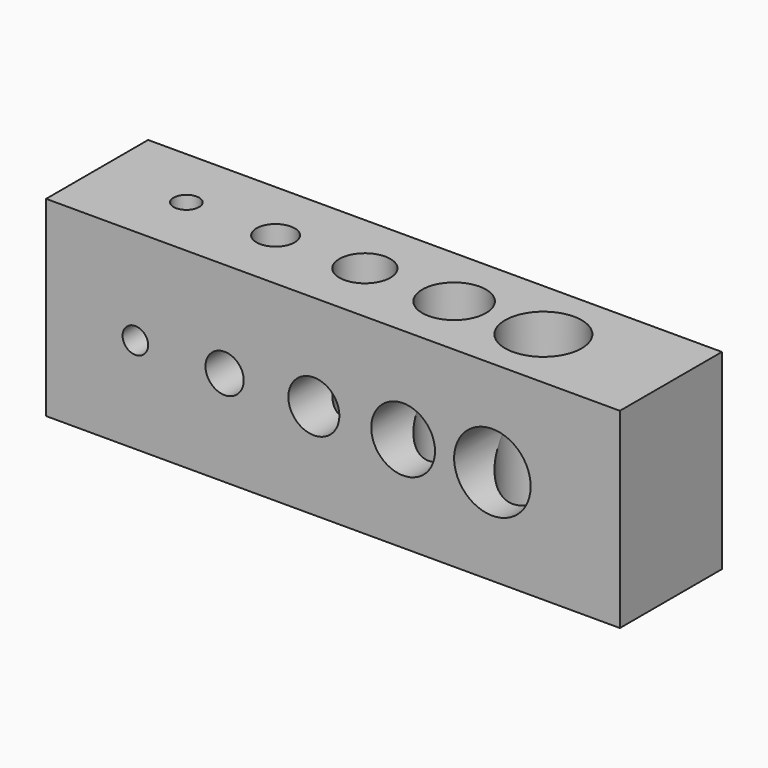
from build123d import *

# Parameters (mm, degrees)
F0_W     = 45
F0_H     = 10
F1_DEPTH = 15
F2_R     = 1
F2_R_2   = 1.5
F2_R_3   = 2
F2_R_4   = 2.5
F2_R_5   = 3
F3_DEPTH = 10
F4_R     = 1
F4_R_2   = 1.5
F4_R_3   = 2
F4_R_4   = 2.5
F4_R_5   = 3
F5_DEPTH = 15


with BuildPart() as f1:
    # F0 (on Top) → F1 (new body)
    with BuildSketch(Plane.XY):
        Rectangle(F0_W, F0_H)
    extrude(amount=F1_DEPTH)

    # F2 (on face) → F3 (cut, through all)
    with BuildSketch(Plane.XZ.offset(5)):
        with Locations((-15.5, 7.5)):
            Circle(F2_R)
        with Locations((-8.5, 7.5)):
            Circle(F2_R_2)
        with Locations((-1.5, 7.5)):
            Circle(F2_R_3)
        with Locations((5.5, 7.5)):
            Circle(F2_R_4)
        with Locations((12.5, 7.5)):
            Circle(F2_R_5)
    extrude(amount=-F3_DEPTH, mode=Mode.SUBTRACT)

    # F4 (on face) → F5 (cut, through all)
    with BuildSketch(Plane.XY.offset(15)):
        with Locations((-15.5, 0)):
            Circle(F4_R)
        with Locations((-8.5, 0)):
            Circle(F4_R_2)
        with Locations((-1.5, 0)):
            Circle(F4_R_3)
        with Locations((5.5, 0)):
            Circle(F4_R_4)
        with Locations((12.5, 0)):
            Circle(F4_R_5)
    extrude(amount=-F5_DEPTH, mode=Mode.SUBTRACT)


solid = f1.part
